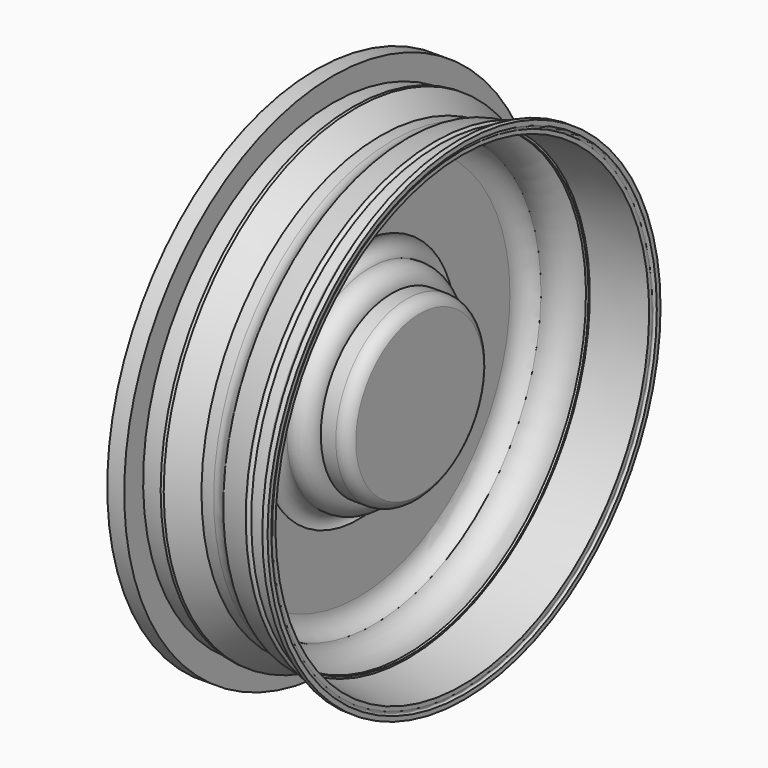
from build123d import *


with BuildPart() as f1:
    # F0 (on Front) → F1 (revolve)
    with BuildSketch(Plane.XZ):
        with BuildLine():
            Line((0, 51.44541), (0, 0))
            Line((0, 0), (23.933996, -31.976145))
            ThreePointArc((23.933996, -31.976145), (6.714642, -42.818504), (0, -62.027264))
            Line((0, -62.027264), (0, -324.974477))
            Line((0, -324.974477), (73.518336, -324.974477))
            ThreePointArc((73.518336, -324.974477), (94.814287, -366.412413), (138.128206, -383.574128))
            Line((138.128206, -383.574128), (138.128206, -527.819455))
            Line((138.128206, -527.819455), (215.433508, -527.819455))
            Line((215.433508, -527.819455), (215.433508, -345.0872))
            ThreePointArc((215.433508, -345.0872), (203.921329, -330.411247), (186.112329, -324.865669))
            Line((186.112329, -324.865669), (151.735768, -324.865669))
            ThreePointArc((151.735768, -324.865669), (135.516198, -295.937991), (103.204146, -288.46696))
            ThreePointArc((103.204146, -288.46696), (75.672342, -279.112353), (74.858643, -250.046104))
            Line((74.858643, -250.046104), (74.858643, -93.785122))
            ThreePointArc((74.858643, -93.785122), (85.875175, -66.083961), (111.370824, -50.634358))
            ThreePointArc((111.370824, -50.634358), (154.803297, -45.326832), (183.859727, -12.611799))
            Line((183.859727, -12.611799), (189.103365, -11.902641))
            Line((189.103365, -11.902641), (188.476965, -7.270932))
            Line((188.476965, -7.270932), (313.099623, 6.432588))
            Line((313.099623, 6.432588), (313.099623, 15.786495))
            ThreePointArc((313.099623, 15.786495), (311.846526, 21.297171), (317.108452, 23.358706))
            Line((317.108452, 23.358706), (317.108452, 34.048885))
            Line((317.108452, 34.048885), (305.081993, 34.048885))
            ThreePointArc((305.081993, 34.048885), (301.446223, 17.766313), (286.426246, 10.503993))
            Line((286.426246, 10.503993), (260.870665, 10.503993))
            ThreePointArc((260.870665, 10.503993), (253.494306, 14.514162), (248.117357, 8.065864))
            Line((248.117357, 8.065864), (188.476965, 0))
            ThreePointArc((188.476965, 0), (172.925195, -11.724082), (153.899029, -15.885411))
            Line((153.899029, -15.885411), (125.917375, -15.885411))
            Line((125.917375, -15.885411), (69.662623, 21.714916))
            Line((69.662623, 21.714916), (62.667213, 21.714916))
            Line((62.667213, 21.714916), (62.667213, 15.30246))
            Line((62.667213, 15.30246), (17.488526, 15.30246))
            Line((17.488526, 15.30246), (17.488526, 69.516882))
            Line((17.488526, 69.516882), (-21.277705, 69.516882))
            Line((-21.277705, 69.516882), (-21.277705, 51.44541))
            Line((-21.277705, 51.44541), (0, 51.44541))
        make_face()
    revolve(axis=Axis((176.780857, 0, -527.819455), (-1, 0, 0)))


solid = f1.part
